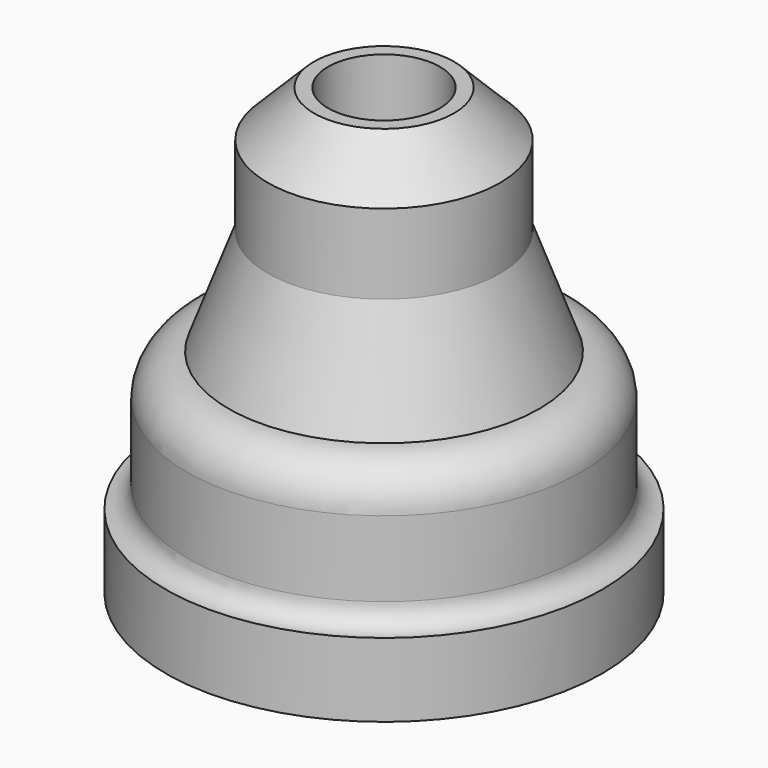
from build123d import *

# Parameters (mm, degrees)
F2_R     = 4
F3_DEPTH = 26.5


with BuildPart() as f1:
    # F0 (on Front) → F1 (revolve)
    with BuildSketch(Plane.XZ):
        with BuildLine():
            Line((0, 9), (0, -23))
            Line((0, -23), (15.151307, -23))
            Line((15.151307, -23), (15.6, -22.779377))
            Line((15.6, -22.779377), (15.6, -17.5))
            ThreePointArc((15.6, -17.5), (14.53934, -17.06066), (14.1, -16))
            Line((14.1, -16), (14.1, -10.6))
            ThreePointArc((14.1, -10.6), (13.22132, -8.47868), (11.1, -7.6))
            Line((11.1, -7.6), (8.3, 0))
            Line((8.3, 0), (8.3, 5.7))
            Line((8.3, 5.7), (5, 9))
            Line((5, 9), (0, 9))
        make_face()
    revolve(axis=Axis((0, 0, -1.903735), (0, 0, 1)))

    # F2 (on face) → F3 (cut)
    with BuildSketch(Plane.XY.offset(9)):
        Circle(F2_R)
    extrude(amount=-F3_DEPTH, mode=Mode.SUBTRACT)


solid = f1.part
